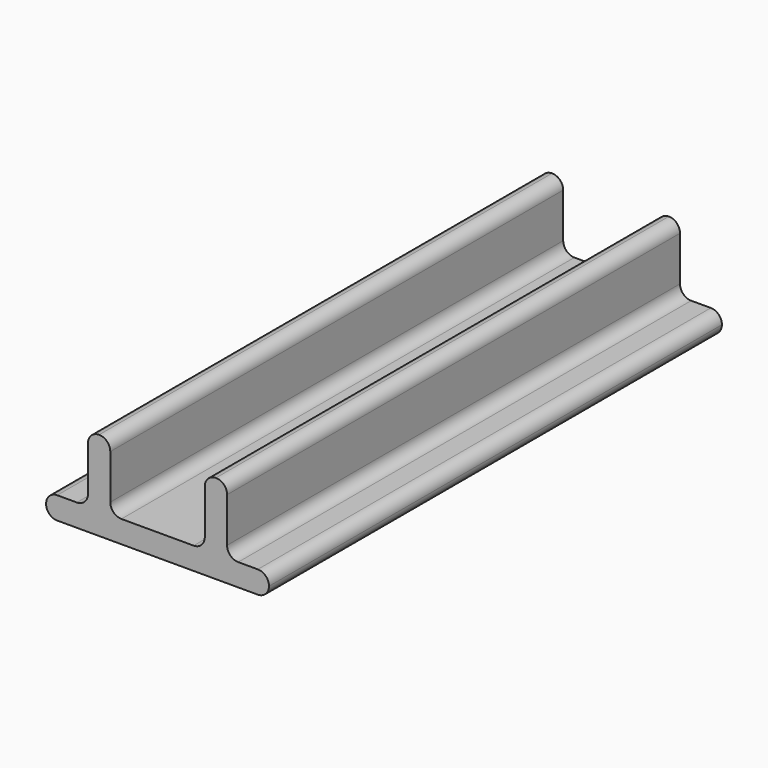
from build123d import *

# Parameters (mm, degrees)
F1_DEPTH = 12.7


with BuildPart() as f1:
    # F0 (on Front) → F1 (new body, symmetric)
    with BuildSketch(Plane.XZ):
        with BuildLine():
            Line((-3.62, 0.5), (-4.5, 0.5))
            ThreePointArc((-4.5, 0.5), (-4.853553, 0.353553), (-5, 0))
            ThreePointArc((-5, 0), (-4.853553, -0.353553), (-4.5, -0.5))
            Line((-4.5, -0.5), (4.5, -0.5))
            ThreePointArc((4.5, -0.5), (4.853553, -0.353553), (5, 0))
            ThreePointArc((5, 0), (4.853553, 0.353553), (4.5, 0.5))
            Line((4.5, 0.5), (3.62, 0.5))
            ThreePointArc((3.62, 0.5), (3.266447, 0.646447), (3.12, 1))
            Line((3.12, 1), (3.12, 3))
            ThreePointArc((3.12, 3), (2.973553, 3.353553), (2.62, 3.5))
            ThreePointArc((2.62, 3.5), (2.266447, 3.353553), (2.12, 3))
            Line((2.12, 3), (2.12, 1))
            ThreePointArc((2.12, 1), (1.973553, 0.646447), (1.62, 0.5))
            Line((1.62, 0.5), (-1.62, 0.5))
            ThreePointArc((-1.62, 0.5), (-1.973553, 0.646447), (-2.12, 1))
            Line((-2.12, 1), (-2.12, 3))
            ThreePointArc((-2.12, 3), (-2.266447, 3.353553), (-2.62, 3.5))
            ThreePointArc((-2.62, 3.5), (-2.973553, 3.353553), (-3.12, 3))
            Line((-3.12, 3), (-3.12, 1))
            ThreePointArc((-3.12, 1), (-3.266447, 0.646447), (-3.62, 0.5))
        make_face()
    extrude(amount=F1_DEPTH, both=True)


solid = f1.part
